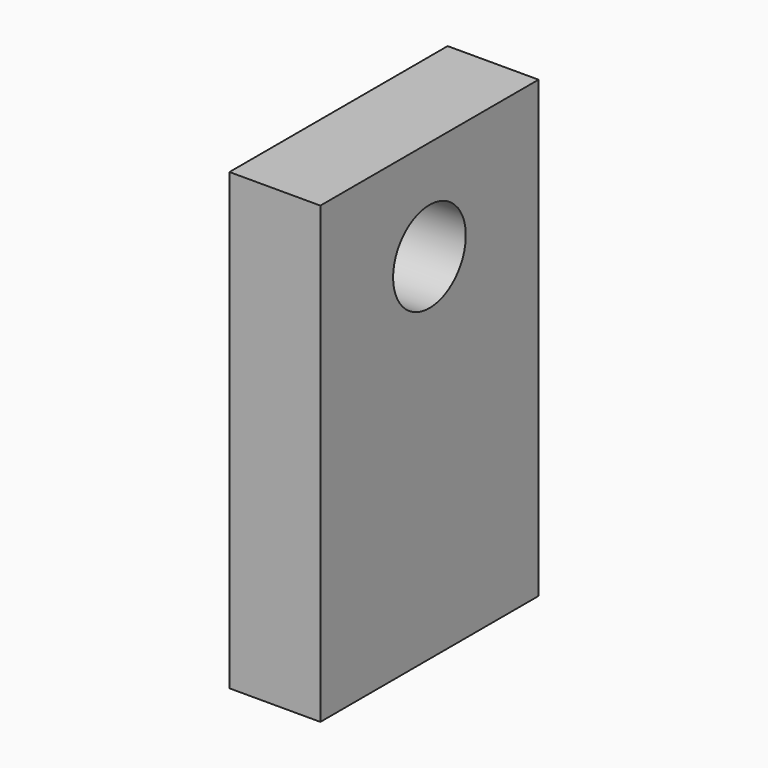
from build123d import *

# Parameters (mm, degrees)
F0_W     = 76.2
F0_H     = 127
F1_DEPTH = 25.4
F2_R     = 12.7
F3_DEPTH = 25.401


with BuildPart() as f1:
    # F0 (on Right) → F1 (new body)
    with BuildSketch(Plane.YZ):
        with Locations((-38.1, 4.413571)):
            Rectangle(F0_W, F0_H)
    extrude(amount=F1_DEPTH)

    # F2 (on face) → F3 (cut, through all)
    with BuildSketch(Plane(origin=(0, 0, 0), x_dir=(0, -1, 0), z_dir=(-1, 0, 0))):
        with Locations((38.1, 39.905537)):
            Circle(F2_R)
    extrude(amount=-F3_DEPTH, mode=Mode.SUBTRACT)


solid = f1.part
